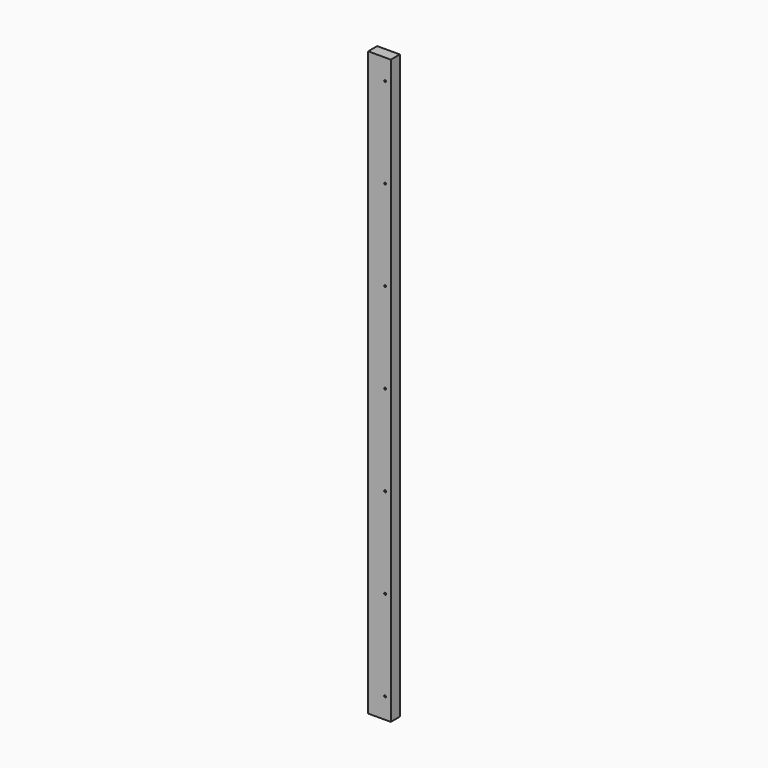
from build123d import *

# Parameters (mm, degrees)
F0_W     = 38.1
F0_H     = 984.25
F1_DEPTH = 19.05
F2_R     = 1.5875
F3_DEPTH = 19.051


with BuildPart() as f1:
    # F0 (on Front) → F1 (new body)
    with BuildSketch(Plane.XZ):
        with Locations((19.05, -492.125)):
            Rectangle(F0_W, F0_H)
    extrude(amount=-F1_DEPTH)

    # F2 (on Front) → F3 (cut, through all)
    with BuildSketch(Plane.XZ):
        with Locations((28.575, -34.925)):
            Circle(F2_R)
        with Locations((28.575, -187.325)):
            Circle(F2_R)
        with Locations((28.575, -339.725)):
            Circle(F2_R)
        with Locations((28.575, -492.125)):
            Circle(F2_R)
        with Locations((28.575, -644.525)):
            Circle(F2_R)
        with Locations((28.575, -796.925)):
            Circle(F2_R)
        with Locations((28.575, -949.325)):
            Circle(F2_R)
    extrude(amount=-F3_DEPTH, mode=Mode.SUBTRACT)


solid = f1.part
